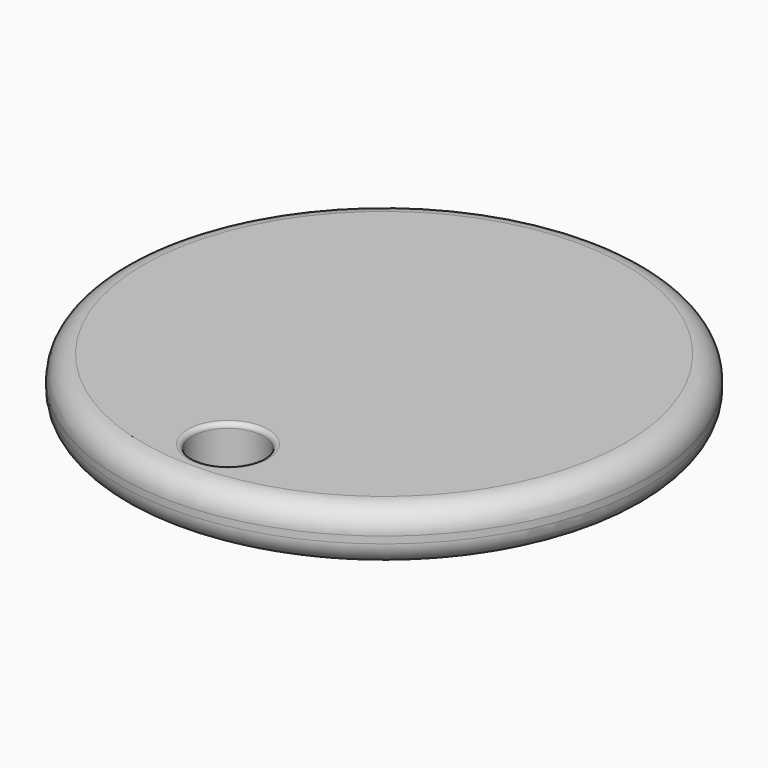
from build123d import *

# Parameters (mm, degrees)
F0_R     = 11.5
F2_DEPTH = 2.3
F1_R     = 1.55
F3_DEPTH = 25
F4_R     = 1
F5_R     = 0.2


with BuildPart() as f2:
    # F0 (on Top) → F2 (new body)
    with BuildSketch(Plane.XY):
        Circle(F0_R)
    extrude(amount=F2_DEPTH)

    # F1 (on Top) → F3 (cut)
    with BuildSketch(Plane.XY):
        with Locations((0, -8.5)):
            Circle(F1_R)
    extrude(amount=F3_DEPTH, mode=Mode.SUBTRACT)

    # F4
    f4_edges = [f2.edges().sort_by_distance(p)[0] for p in [
        (-11.5, 0, 2.3),
        (-11.5, 0, 0),
    ]]
    fillet(f4_edges, radius=F4_R)

    # F5
    f5_edges = [f2.edges().sort_by_distance(p)[0] for p in [
        (-10.5, 0, 2.3),
        (-1.55, -8.5, 2.3),
        (-1.55, -8.5, 0),
    ]]
    fillet(f5_edges, radius=F5_R)


solid = f2.part
